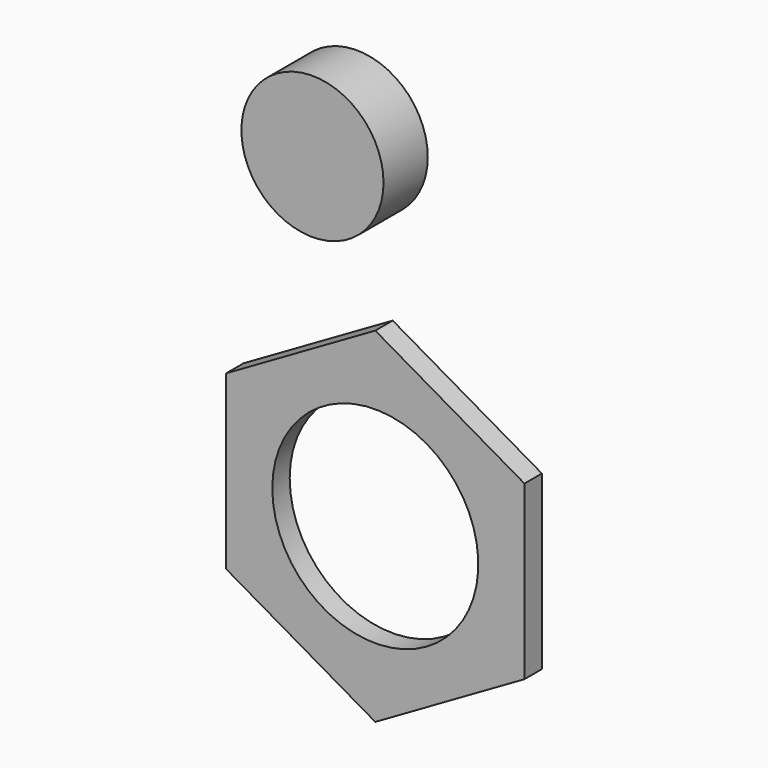
from build123d import *

# Parameters (mm, degrees)
F1_DEPTH  = 10
F2_R      = 45.4942813863
F3_DEPTH  = 25.4
F4_R      = 47.204093178
F5_DEPTH  = 25.4
F6_R      = 46.3847051747
F7_DEPTH  = 10
F8_R      = 47.2915401182
F9_DEPTH  = 25.4
F10_R     = 32.6180484156
F10_R_2   = 26.2680526833
F11_DEPTH = 25.399999693


with BuildPart() as f1:
    # F0 (on Front) → F1 (new body)
    with BuildSketch(Plane.XZ):
        Polygon((-68.4885542918, -39.5418852568), (0, -79.0837705135), (68.4885542918, -39.5418852568), (68.4885542918, 39.5418852568), (0, 79.0837705135), (-68.4885542918, 39.5418852568), align=None)
    extrude(amount=F1_DEPTH)

    # F2 (on Front) → F3 (cut)
    with BuildSketch(Plane.XZ):
        Circle(F2_R)
    extrude(amount=-F3_DEPTH, mode=Mode.SUBTRACT)

    # F4 (on Front) → F5 (cut)
    with BuildSketch(Plane.XZ):
        Circle(F4_R)
    extrude(amount=-F5_DEPTH, mode=Mode.SUBTRACT)

    # F6 (on Front) → F7 (cut)
    with BuildSketch(Plane.XZ):
        Circle(F6_R)
    extrude(amount=-F7_DEPTH, mode=Mode.SUBTRACT)

    # F8 (on face) → F9 (cut)
    with BuildSketch(Plane(origin=(0, 0, 0), x_dir=(-1, 0, 0), z_dir=(0, 1, 0))):
        Circle(F8_R)
    extrude(amount=-F9_DEPTH, mode=Mode.SUBTRACT)


with BuildPart() as f11:
    # F10 (on Front) → F11 (new body)
    with BuildSketch(Plane.XZ):
        with Locations((-36.8453972042, 133.4440261126)):
            Circle(F10_R)
        with Locations((-36.8453972042, 133.4440261126)):
            Circle(F10_R_2, mode=Mode.SUBTRACT)
        with Locations((-36.8453972042, 133.4440261126)):
            Circle(F10_R_2)
    extrude(amount=-F11_DEPTH)


solid = Compound([f1.part, f11.part])
